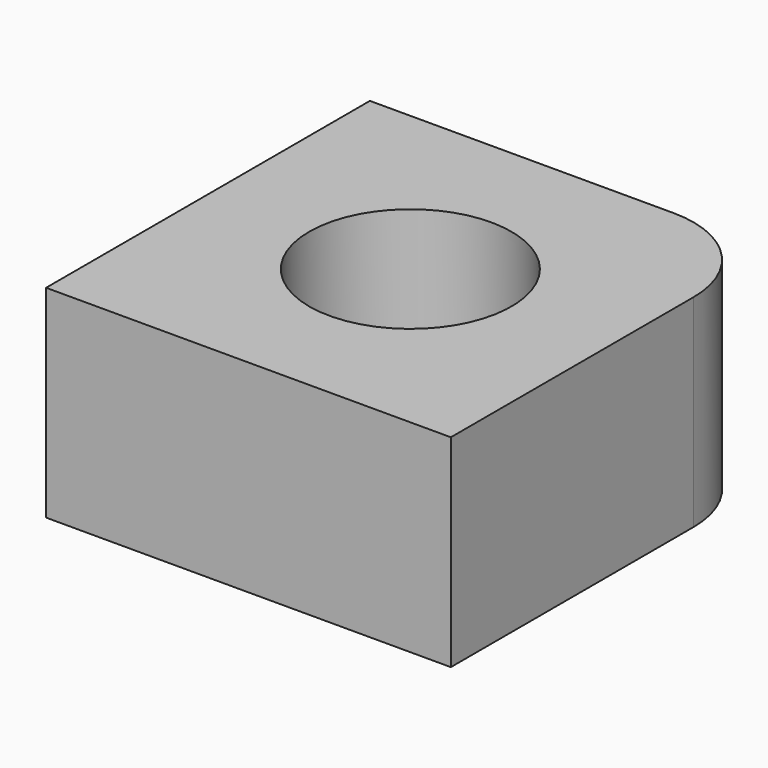
from build123d import *

# Parameters (mm, degrees)
F0_W     = 20
F0_H     = 20
F1_DEPTH = 10
F3_D     = 10
F4_R     = 5


with BuildPart() as f1:
    # F0 (on Top) → F1 (new body)
    with BuildSketch(Plane.XY):
        Rectangle(F0_W, F0_H)
        Rectangle(F0_W, F0_H)
    extrude(amount=F1_DEPTH)

    # F3 (through all)
    with Locations(Plane.XY.offset(10)):
        with Locations((0, 0)):
            Hole(F3_D / 2)

    # F4
    f4_edges = [f1.edges().sort_by_distance(p)[0] for p in [
        (10, 10, 5),
    ]]
    fillet(f4_edges, radius=F4_R)


solid = f1.part
